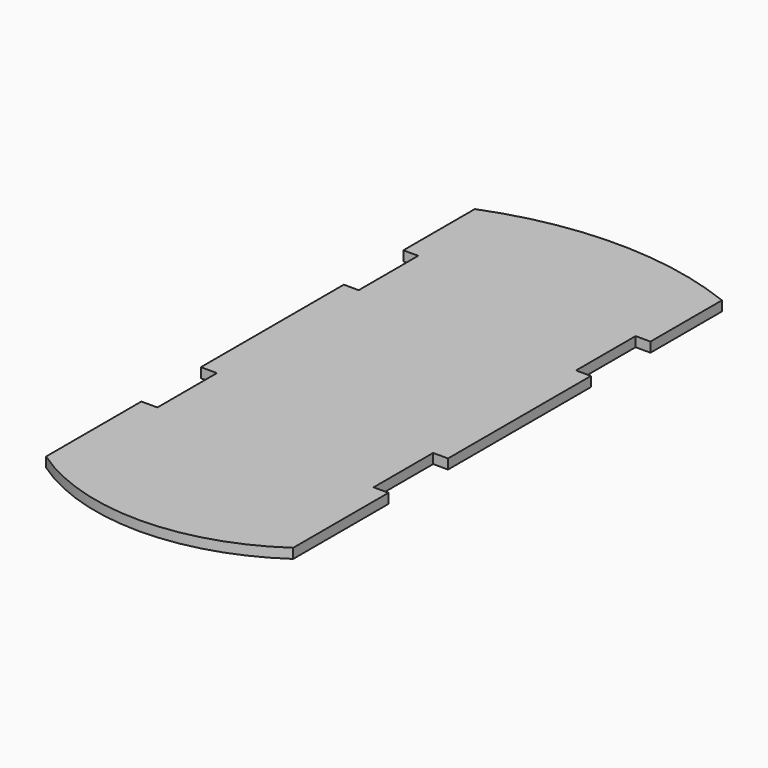
from build123d import *

# Parameters (mm, degrees)
F1_DEPTH = 8.382


with BuildPart() as f1:
    # F0 (on Top) → F1 (new body)
    with BuildSketch(Plane.XY):
        with BuildLine():
            ThreePointArc((140.828924, 225.652146), (35.418924, 245.709344), (-69.991076, 225.652146))
            Line((-69.991076, 225.652146), (-69.991076, 149.452146))
            Line((-69.991076, 149.452146), (-57.291076, 149.452146))
            Line((-57.291076, 149.452146), (-57.291076, 85.952146))
            Line((-57.291076, 85.952146), (-69.991076, 85.952146))
            Line((-69.991076, 85.952146), (-69.991076, -66.447854))
            Line((-69.991076, -66.447854), (-56.304867, -66.447854))
            Line((-56.304867, -66.447854), (-56.304867, -129.947854))
            Line((-56.304867, -129.947854), (-69.991076, -129.947854))
            Line((-69.991076, -129.947854), (-69.991076, -231.547854))
            ThreePointArc((-69.991076, -231.547854), (35.418924, -264.425045), (140.828924, -231.547854))
            Line((140.828924, -231.547854), (140.828924, -129.947854))
            Line((140.828924, -129.947854), (128.128924, -129.947854))
            Line((128.128924, -129.947854), (128.128924, -66.447854))
            Line((128.128924, -66.447854), (140.828924, -66.447854))
            Line((140.828924, -66.447854), (140.828924, 85.952146))
            Line((140.828924, 85.952146), (128.128924, 85.952146))
            Line((128.128924, 85.952146), (128.128924, 149.452146))
            Line((128.128924, 149.452146), (140.828924, 149.452146))
            Line((140.828924, 149.452146), (140.828924, 225.652146))
        make_face()
    extrude(amount=F1_DEPTH)


solid = f1.part
